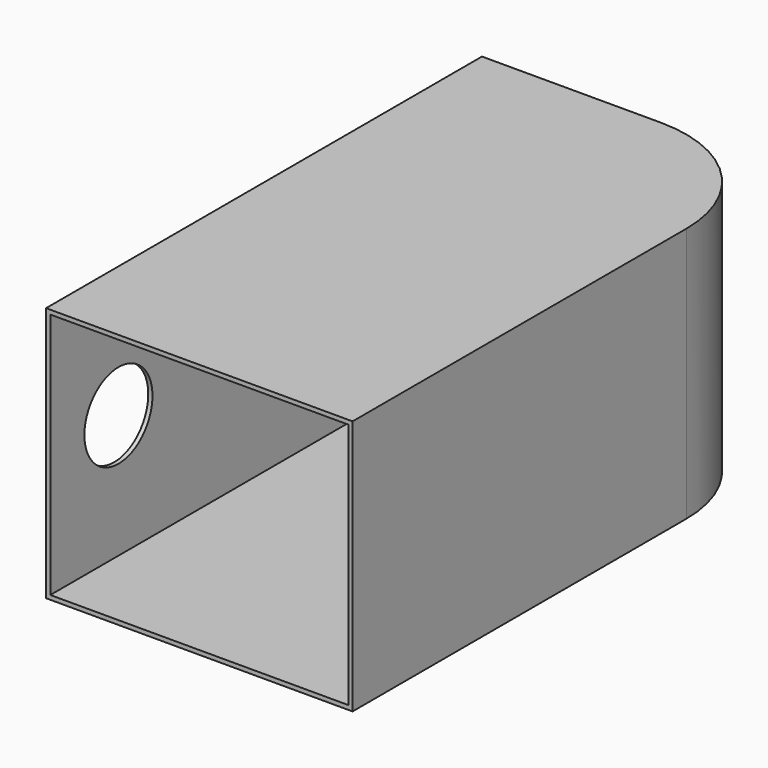
from build123d import *

# Parameters (mm, degrees)
F1_DEPTH = 150
F3_T     = -5
F4_R     = 50
F5_DEPTH = 5


with BuildPart() as f1:
    # F0 (on Top) → F1 (new body)
    with BuildSketch(Plane.XY):
        with BuildLine():
            Line((0, 640), (0, 0))
            Line((0, 0), (360, 0))
            Line((360, 0), (360, 490))
            ThreePointArc((360, 490), (316.066017, 596.066017), (210, 640))
            Line((210, 640), (0, 640))
        make_face()
    extrude(amount=F1_DEPTH)

    # F2: F1 across plane


with BuildPart() as f1_1:
    add(f1.part)
    add(f1.part.mirror(Plane.XY))

    # F3
    f3_openings = [f1_1.faces().sort_by_distance(p)[0] for p in [
        (180, 0, 0),
    ]]
    offset(amount=F3_T, openings=f3_openings)

    # F4 (on face) → F5 (cut, through all)
    with BuildSketch(Plane(origin=(0, 0, 0), x_dir=(0, -1, 0), z_dir=(-1, 0, 0))):
        with Locations((-100, 0)):
            Circle(F4_R)
    extrude(amount=-F5_DEPTH, mode=Mode.SUBTRACT)


solid = f1_1.part
